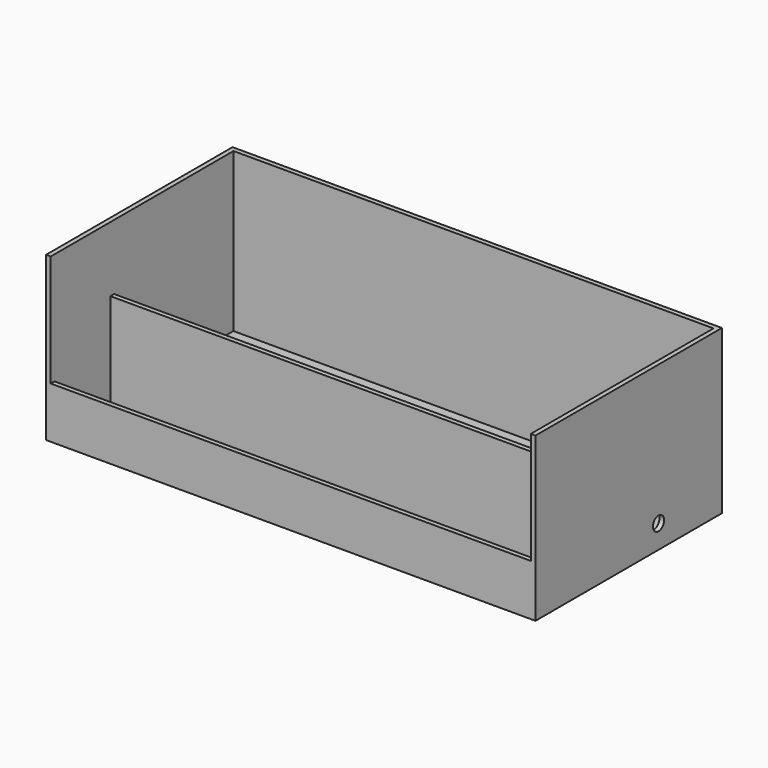
from build123d import *

# Parameters (mm, degrees)
CYLINDER_R     = 1.5
CYLINDER_DEPTH = 10
BOX002_W       = 103
BOX002_H       = 1
BOX002_DEPTH   = 10
BOX003_W       = 103
BOX003_H       = 1
BOX003_DEPTH   = 20
BOX001_W       = 103
BOX001_H       = 49
BOX001_DEPTH   = 34
BOX_W          = 105
BOX_H          = 50
BOX_DEPTH      = 35


with BuildPart() as pump_hole:
    # Cylinder → Cylinder (new body)
    with BuildSketch(Plane(origin=(100, 33, 5), x_dir=(0, 0, -1), z_dir=(1, 0, 0))):
        Circle(CYLINDER_R)
    extrude(amount=CYLINDER_DEPTH)


with BuildPart() as front_piece:
    # Box002 → Box002 (new body)
    with BuildSketch(Plane(origin=(1, 0, 1), x_dir=(1, 0, 0), z_dir=(0, 0, 1))):
        with Locations((51.5, 0.5)):
            Rectangle(BOX002_W, BOX002_H)
    extrude(amount=BOX002_DEPTH)


with BuildPart() as mid_piece:
    # Box003 → Box003 (new body)
    with BuildSketch(Plane(origin=(1, 16, 1), x_dir=(1, 0, 0), z_dir=(0, 0, 1))):
        with Locations((51.5, 0.5)):
            Rectangle(BOX003_W, BOX003_H)
    extrude(amount=BOX003_DEPTH)


with BuildPart() as primary_cut_out:
    # Box001 → Box001 (new body)
    with BuildSketch(Plane(origin=(1, 0, 1), x_dir=(1, 0, 0), z_dir=(0, 0, 1))):
        with Locations((51.5, 24.5)):
            Rectangle(BOX001_W, BOX001_H)
    extrude(amount=BOX001_DEPTH)


with BuildPart() as pool:
    # Box → Box (new body)
    with BuildSketch(Plane.XY):
        with Locations((52.5, 25)):
            Rectangle(BOX_W, BOX_H)
    extrude(amount=BOX_DEPTH)

    # Cut: cut Primary Cut Out
    add(primary_cut_out.part, mode=Mode.SUBTRACT)

    # Fusion: union Front Piece, Mid Piece
    add(front_piece.part)
    add(mid_piece.part)

    # Cut001: cut Pump Hole
    add(pump_hole.part, mode=Mode.SUBTRACT)


with BuildPart() as pool_1:
    # Cut001 placement: moved
    add(pool.part.moved(Location((2, 0, 0))))


solid = pool_1.part
